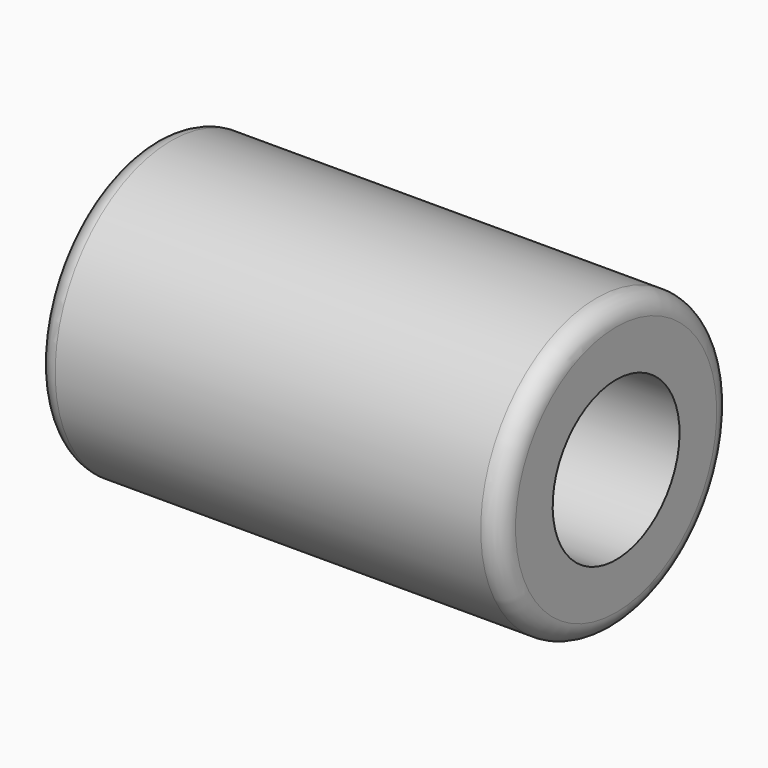
from build123d import *


with BuildPart() as f1:
    # F0 (on Front) → F1 (revolve)
    with BuildSketch(Plane.XZ):
        with BuildLine():
            Line((11, 7.5), (-11, 7.5))
            ThreePointArc((-11, 7.5), (-11.707107, 7.207107), (-12, 6.5))
            Line((-12, 6.5), (-12, 4.1))
            Line((-12, 4.1), (12, 4.1))
            Line((12, 4.1), (12, 6.5))
            ThreePointArc((12, 6.5), (11.707107, 7.207107), (11, 7.5))
        make_face()
    revolve(axis=Axis((0, 0, 0), (1, 0, 0)))


solid = f1.part
